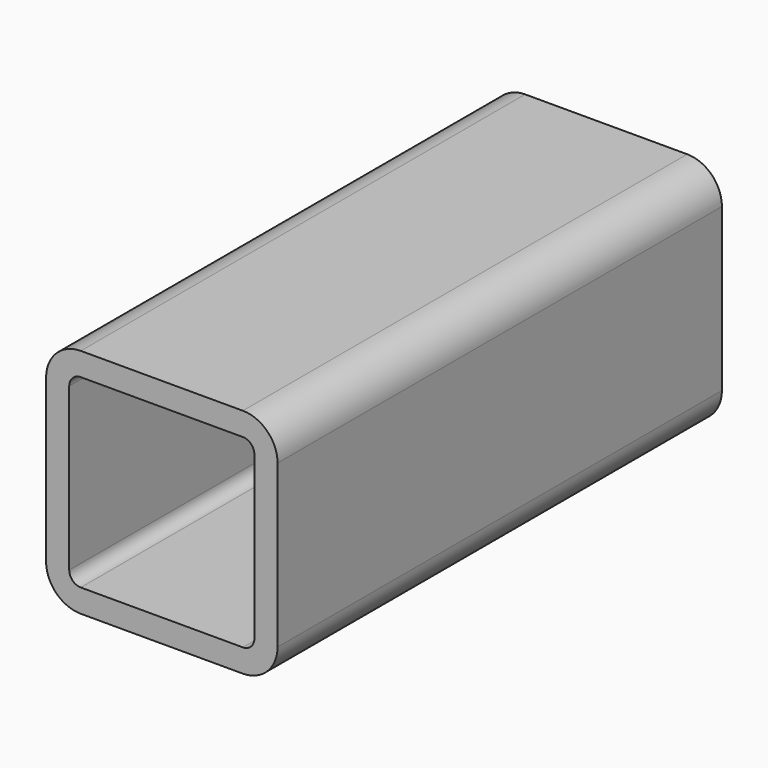
from build123d import *

# Parameters (mm, degrees)
F1_DEPTH = 152.4
F2_T     = -6.35


with BuildPart() as f1:
    # F0 (on Front) → F1 (new body)
    with BuildSketch(Plane.XZ):
        with BuildLine():
            ThreePointArc((0, 9.525), (2.789808, 2.789808), (9.525, 0))
            Line((9.525, 0), (53.975, 0))
            ThreePointArc((53.975, 0), (60.710192, 2.789808), (63.5, 9.525))
            Line((63.5, 9.525), (63.5, 53.975))
            ThreePointArc((63.5, 53.975), (60.710192, 60.710192), (53.975, 63.5))
            Line((53.975, 63.5), (9.525, 63.5))
            ThreePointArc((9.525, 63.5), (2.789808, 60.710192), (0, 53.975))
            Line((0, 53.975), (0, 9.525))
        make_face()
    extrude(amount=F1_DEPTH)

    # F2
    f2_openings = [f1.faces().sort_by_distance(p)[0] for p in [
        (31.75, -152.4, 31.75),
        (31.75, 0, 31.75),
    ]]
    offset(amount=F2_T, openings=f2_openings)


solid = f1.part
